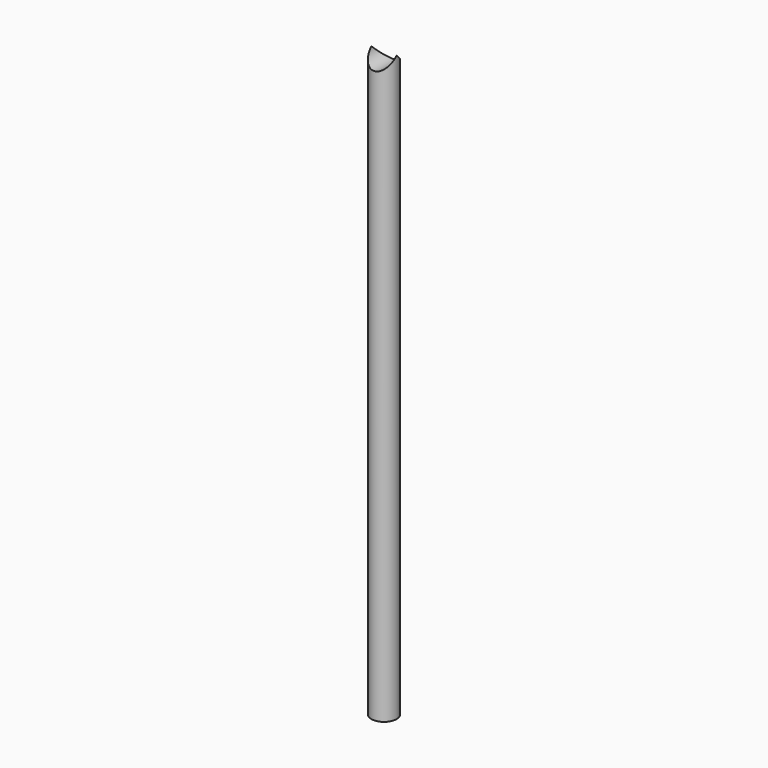
from build123d import *

# Parameters (mm, degrees)
F0_R     = 21
F1_DEPTH = 969
F2_R     = 21
F3_DEPTH = 50


with BuildPart() as f1:
    # F0 (on Top) → F1 (new body)
    with BuildSketch(Plane.XY):
        Circle(F0_R)
    extrude(amount=-F1_DEPTH)

    # F2 (on Front) → F3 (cut, symmetric)
    with BuildSketch(Plane.XZ):
        Circle(F2_R)
    extrude(amount=F3_DEPTH, both=True, mode=Mode.SUBTRACT)


solid = f1.part
